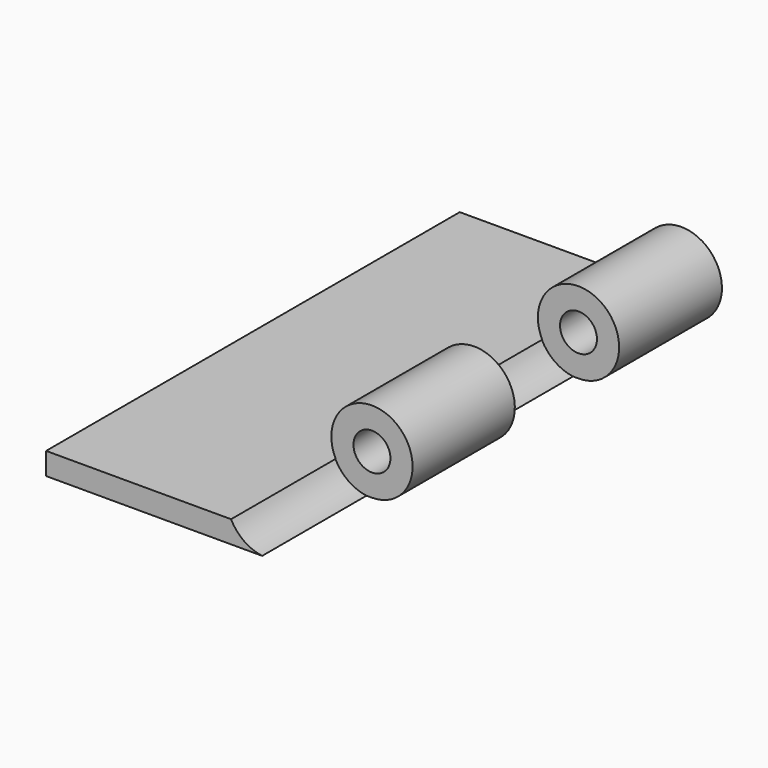
from build123d import *

# Parameters (mm, degrees)
SKETCH002_W            = 30
SKETCH002_H            = 70
PAD002_DEPTH           = 3
SKETCH003_R            = 5.5
SKETCH003_R_2          = 2.5
PAD003_DEPTH           = 17.4
LINEARPATTERN001_COUNT = 2
LINEARPATTERN001_PITCH = 34.95
SKETCH008_R            = 5.55
POCKET001_DEPTH        = 17.65
SKETCH009_R            = 5.55
POCKET002_DEPTH        = 17.65


with BuildPart() as part:
    # Sketch002 → Pad002 (new body)
    with BuildSketch(Plane.XY):
        with Locations((-81.028168, 0)):
            Rectangle(SKETCH002_W, SKETCH002_H)
    extrude(amount=PAD002_DEPTH)

    # Sketch003 (on Face1 of Pad002) → Pad003 (join)
    with BuildSketch(Plane(origin=(0, 35, 0), x_dir=(-1, 0, 0), z_dir=(0, 1, 0))):
        with Locations((66.028168, 5.5)):
            Circle(SKETCH003_R)
        with Locations((66.028168, 5.5)):
            Circle(SKETCH003_R_2, mode=Mode.SUBTRACT)
    pad003 = extrude(amount=-PAD003_DEPTH)

    # LinearPattern001: Pad003 ×2
    with Locations(*[(0, -i * LINEARPATTERN001_PITCH, 0) for i in range(1, LINEARPATTERN001_COUNT)]):
        add(pad003)

    # Sketch008 (on Face12 of MultiTransform001) → Pocket001 (cut)
    with BuildSketch(Plane.XZ.offset(-17.6)):
        with Locations((-66.028168, 5.5)):
            Circle(SKETCH008_R)
    extrude(amount=POCKET001_DEPTH, mode=Mode.SUBTRACT)

    # Sketch009 (on Face10 of MultiTransform001) → Pocket002 (cut)
    with BuildSketch(Plane.XZ.offset(17.35)):
        with Locations((-66.028168, 5.5)):
            Circle(SKETCH009_R)
    extrude(amount=POCKET002_DEPTH, mode=Mode.SUBTRACT)


solid = part.part
